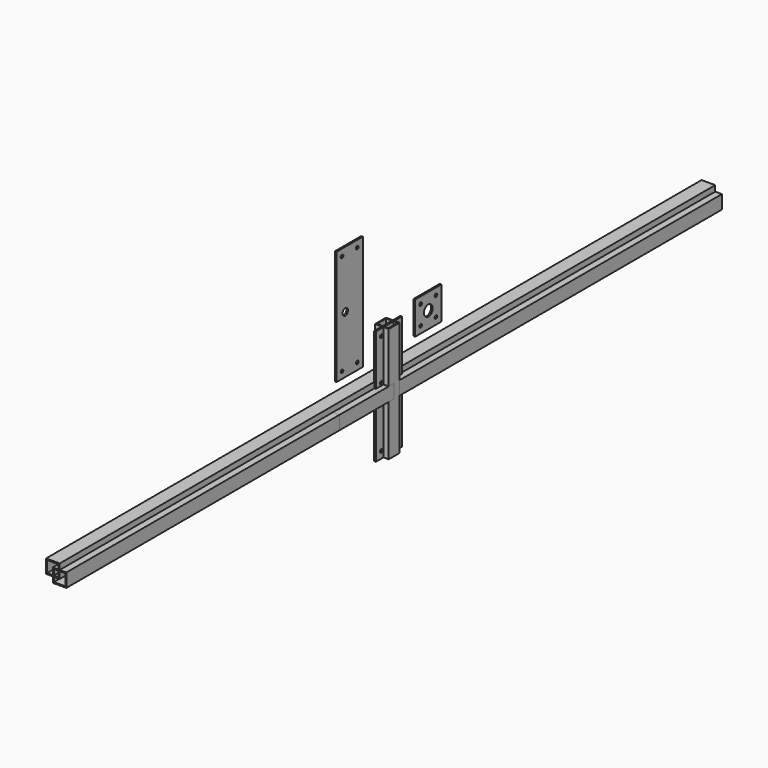
from build123d import *

# Parameters (mm, degrees)
F0_W      = 25
F0_H      = 25
F0_W_2    = 21
F0_H_2    = 21
F1_DEPTH  = 750
F2_W      = 25
F2_H      = 25
F2_W_2    = 21
F2_H_2    = 21
F3_DEPTH  = 750
F4_W      = 25
F4_H      = 25
F4_W_2    = 21
F4_H_2    = 21
F5_DEPTH  = 750
F6_W      = 25
F6_H      = 25
F6_W_2    = 21
F6_H_2    = 21
F7_DEPTH  = 750
F8_W      = 25
F8_H      = 25
F8_W_2    = 21
F8_H_2    = 21
F9_DEPTH  = 105
F10_W     = 60
F10_H     = 210
F10_R     = 3
F10_R_2   = 6.25
F11_DEPTH = 3
F12_W     = 60
F12_H     = 60
F12_R     = 3
F12_R_2   = 10
F13_DEPTH = 3
F14_W     = 60
F14_H     = 210
F14_R     = 3
F14_R_2   = 10
F15_DEPTH = 3
F16_W     = 25
F16_H     = 25
F16_W_2   = 21
F16_H_2   = 21
F17_DEPTH = 125
F19_D     = 6
F20_D     = 6


with BuildPart() as f1:
    # F0 (on Front) → F1 (new body, symmetric)
    with BuildSketch(Plane.XZ):
        Rectangle(F0_W, F0_H)
        Rectangle(F0_W_2, F0_H_2, mode=Mode.SUBTRACT)
    extrude(amount=F1_DEPTH, both=True)


with BuildPart() as f3:
    # F2 (on Front) → F3 (new body, symmetric)
    with BuildSketch(Plane.XZ):
        Rectangle(F2_W, F2_H)
        Rectangle(F2_W_2, F2_H_2, mode=Mode.SUBTRACT)
    extrude(amount=F3_DEPTH, both=True)


with BuildPart() as f5:
    # F4 (on Front) → F5 (new body, symmetric)
    with BuildSketch(Plane.XZ):
        with Locations((-12.239270702, 10.5)):
            Rectangle(F4_W, F4_H)
        with Locations((-12.239270702, 10.5)):
            Rectangle(F4_W_2, F4_H_2, mode=Mode.SUBTRACT)
    extrude(amount=F5_DEPTH, both=True)


with BuildPart() as f7:
    # F6 (on Front) → F7 (new body, symmetric)
    with BuildSketch(Plane.XZ):
        Rectangle(F6_W, F6_H)
        Rectangle(F6_W_2, F6_H_2, mode=Mode.SUBTRACT)
    extrude(amount=F7_DEPTH, both=True)


with BuildPart() as f9:
    # F8 (on Top) → F9 (new body, symmetric)
    with BuildSketch(Plane.XY):
        Rectangle(F8_W, F8_H)
        Rectangle(F8_W_2, F8_H_2, mode=Mode.SUBTRACT)
    extrude(amount=F9_DEPTH, both=True)


with BuildPart() as f11:
    # F10 (on Right) → F11 (new body)
    with BuildSketch(Plane.YZ):
        with Locations((-90, 165)):
            Rectangle(F10_W, F10_H)
        with Locations((-107.5, 72.5)):
            Circle(F10_R, mode=Mode.SUBTRACT)
        with Locations((-72.5, 72.5)):
            Circle(F10_R, mode=Mode.SUBTRACT)
        with Locations((-100, 165)):
            Circle(F10_R_2, mode=Mode.SUBTRACT)
        with Locations((-107.5, 257.5)):
            Circle(F10_R, mode=Mode.SUBTRACT)
        with Locations((-72.5, 257.5)):
            Circle(F10_R, mode=Mode.SUBTRACT)
    extrude(amount=F11_DEPTH)


with BuildPart() as f13:
    # F12 (on Right) → F13 (new body)
    with BuildSketch(Plane.YZ):
        with Locations((90, 90)):
            Rectangle(F12_W, F12_H)
        with Locations((72.5, 72.5)):
            Circle(F12_R, mode=Mode.SUBTRACT)
        with Locations((107.5, 72.5)):
            Circle(F12_R, mode=Mode.SUBTRACT)
        with Locations((72.5, 107.5)):
            Circle(F12_R, mode=Mode.SUBTRACT)
        with Locations((90, 90)):
            Circle(F12_R_2, mode=Mode.SUBTRACT)
        with Locations((107.5, 107.5)):
            Circle(F12_R, mode=Mode.SUBTRACT)
    extrude(amount=F13_DEPTH)


with BuildPart() as f15:
    # F14 (on Right) → F15 (new body)
    with BuildSketch(Plane.YZ):
        Rectangle(F14_W, F14_H)
        with Locations((-17.5, -92.5)):
            Circle(F14_R, mode=Mode.SUBTRACT)
        with Locations((-17.5, -17.5)):
            Circle(F14_R, mode=Mode.SUBTRACT)
        with Locations((17.5, -92.5)):
            Circle(F14_R, mode=Mode.SUBTRACT)
        with Locations((17.5, -17.5)):
            Circle(F14_R, mode=Mode.SUBTRACT)
        with Locations((-17.5, 17.5)):
            Circle(F14_R, mode=Mode.SUBTRACT)
        with Locations((-17.5, 92.5)):
            Circle(F14_R, mode=Mode.SUBTRACT)
        Circle(F14_R_2, mode=Mode.SUBTRACT)
        with Locations((17.5, 17.5)):
            Circle(F14_R, mode=Mode.SUBTRACT)
        with Locations((17.5, 92.5)):
            Circle(F14_R, mode=Mode.SUBTRACT)
    extrude(amount=F15_DEPTH)


with BuildPart() as f17:
    # F16 (on Front) → F17 (new body)
    with BuildSketch(Plane.XZ):
        Rectangle(F16_W, F16_H)
        Rectangle(F16_W_2, F16_H_2, mode=Mode.SUBTRACT)
    extrude(amount=F17_DEPTH)

    # F19 (through all)
    with Locations(Plane.XY.offset(12.5)):
        with Locations((0, -112.5)):
            Hole(F19_D / 2)

    # F20 (through all)
    with Locations(Plane.XY.offset(12.5)):
        with Locations((0, -12.5)):
            Hole(F20_D / 2)


solid = Compound([f1.part, f3.part, f5.part, f7.part, f9.part, f11.part, f13.part, f15.part, f17.part])
